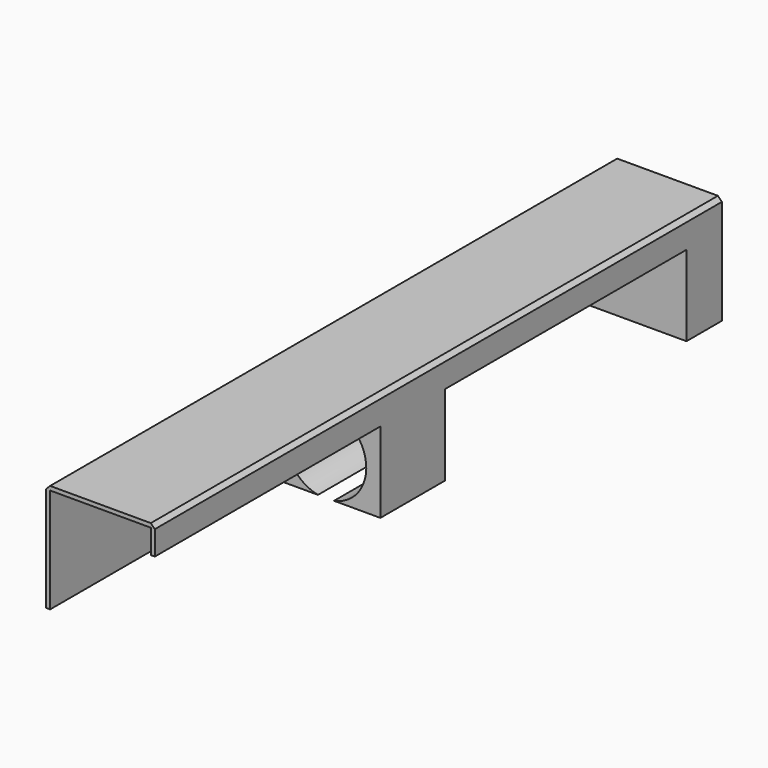
from build123d import *

# Parameters (mm, degrees)
F1_DEPTH  = 176
F3_W      = 25
F3_H      = 1
F4_DEPTH  = 26
F5_DEPTH  = 10
F6_R      = 12.5
F7_DEPTH  = 10
F8_W      = 75
F8_H      = 20
F8_W_2    = 70
F9_DEPTH  = 1
F10_W     = 25
F10_H     = 20
F11_DEPTH = 26
F12_R     = 10
F13_DEPTH = 20
F14_SIZE  = 1


with BuildPart() as f1:
    # F0 (on Front) → F1 (new body)
    with BuildSketch(Plane.XZ):
        Polygon((0, 27), (0, 0), (1, 0), (1, 26), (13.5, 26), (13.5, 27), align=None)
    extrude(amount=F1_DEPTH)

    # F2: F1 across face


with BuildPart() as f1_1:
    add(f1.part)
    add(f1.part.mirror(Plane(origin=(13.5, -88, 26.5), x_dir=(0, 1, 0), z_dir=(1, 0, 0))))

    # F3 (on face) → F4 (join)
    with BuildSketch(Plane(origin=(0, 0, 26), x_dir=(1, 0, 0), z_dir=(0, 0, -1))):
        with Locations((13.5, 10.5)):
            Rectangle(F3_W, F3_H)
    extrude(amount=F4_DEPTH)

    # F5 (add, through all): a face of the model
    f5_faces = [f1_1.faces().sort_by_distance(p)[0] for p in [
        (13.5, -10, 13),
    ]]
    extrude(f5_faces, amount=F5_DEPTH)

    # F6 (on face) → F7 (cut)
    with BuildSketch(Plane(origin=(0, 0, 0), x_dir=(-1, 0, 0), z_dir=(0, 1, 0))):
        with Locations((-13.5, 12.4)):
            Circle(F6_R)
    extrude(amount=-F7_DEPTH, mode=Mode.SUBTRACT)

    # F8 (on face) → F9 (cut, through all)
    with BuildSketch(Plane.YZ.offset(27)):
        with Locations((-48.5, 10)):
            Rectangle(F8_W, F8_H)
        with Locations((-141, 10)):
            Rectangle(F8_W_2, F8_H)
    extrude(amount=-F9_DEPTH, mode=Mode.SUBTRACT)

    # F10 (on face) → F11 (join, through all)
    with BuildSketch(Plane(origin=(0, 0, 26), x_dir=(1, 0, 0), z_dir=(0, 0, -1))):
        with Locations((13.5, 96)):
            Rectangle(F10_W, F10_H)
    extrude(amount=F11_DEPTH)

    # F12 (on face) → F13 (cut, through all)
    with BuildSketch(Plane.XZ.offset(106)):
        with Locations((13.5, 9.8)):
            Circle(F12_R)
    extrude(amount=-F13_DEPTH, mode=Mode.SUBTRACT)

    # F14
    f14_edges = [f1_1.edges().sort_by_distance(p)[0] for p in [
        (27, -88, 27),
        (0, -88, 27),
    ]]
    chamfer(f14_edges, length=F14_SIZE)


solid = f1_1.part
